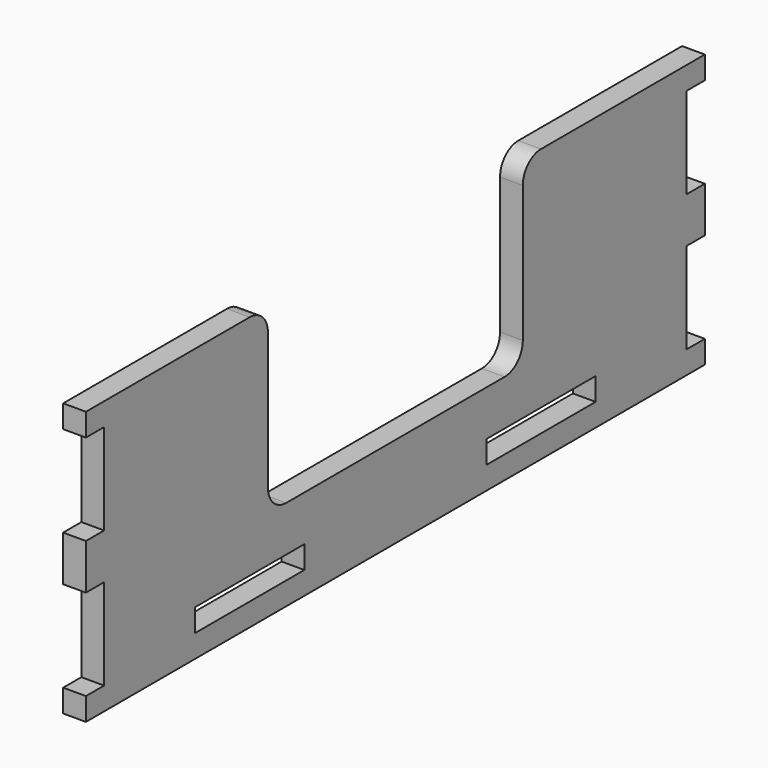
from build123d import *

# Parameters (mm, degrees)
F0_W     = 38.1
F0_H     = 6.35
F1_DEPTH = 6.35
F2_R     = 6.35


with BuildPart() as f1:
    # F0 (on Right) → F1 (new body)
    with BuildSketch(Plane.YZ):
        Polygon((-44.45, 38.1), (-107.95, 38.1), (-107.95, 31.75), (-101.6, 31.75), (-101.6, 6.35), (-107.95, 6.35), (-107.95, -6.35), (-101.6, -6.35), (-101.6, -31.75), (-107.95, -31.75), (-107.95, -38.1), (107.95, -38.1), (107.95, -31.75), (101.6, -31.75), (101.6, -6.35), (107.95, -6.35), (107.95, 6.35), (101.6, 6.35), (101.6, 31.75), (107.95, 31.75), (107.95, 38.1), (44.45, 38.1), (44.45, -12.7), (-44.45, -12.7), align=None)
        with Locations((-50.8, -28.575)):
            Rectangle(F0_W, F0_H, mode=Mode.SUBTRACT)
        with Locations((50.8, -28.575)):
            Rectangle(F0_W, F0_H, mode=Mode.SUBTRACT)
    extrude(amount=F1_DEPTH)

    # F2
    f2_edges = [f1.edges().sort_by_distance(p)[0] for p in [
        (3.175, -44.45, 38.1),
        (3.175, -44.45, -12.7),
        (3.175, 44.45, 38.1),
        (3.175, 44.45, -12.7),
    ]]
    fillet(f2_edges, radius=F2_R)


solid = f1.part
